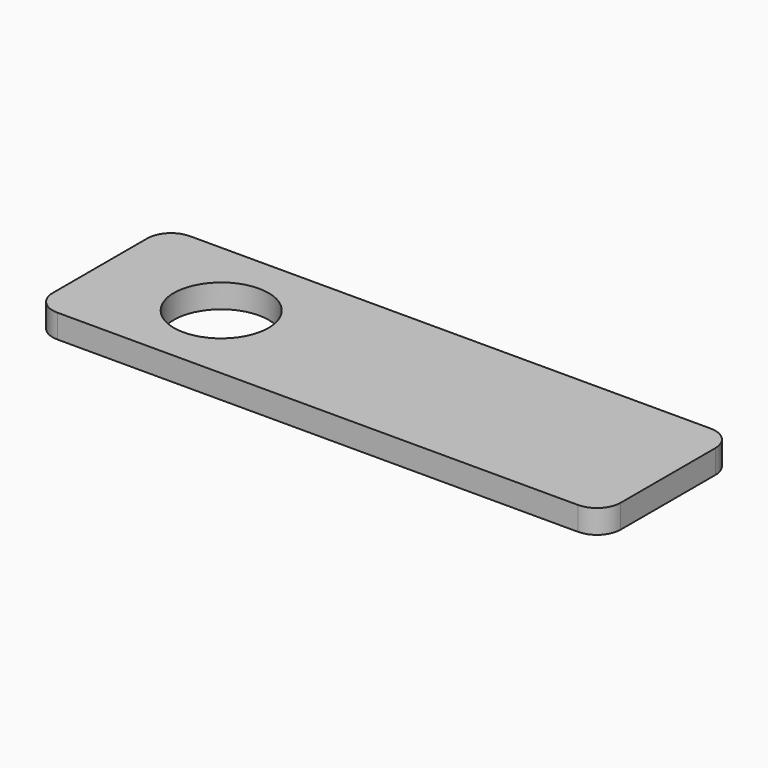
from build123d import *

# Parameters (mm, degrees)
F0_W     = 120
F0_H     = 35
F0_R     = 10
F1_DEPTH = 5
F2_R     = 5


with BuildPart() as f1:
    # F0 (on Top) → F1 (new body)
    with BuildSketch(Plane.XY):
        Rectangle(F0_W, F0_H)
        with Locations((-34.394763, 0)):
            Circle(F0_R, mode=Mode.SUBTRACT)
    extrude(amount=F1_DEPTH)

    # F2
    f2_edges = [f1.edges().sort_by_distance(p)[0] for p in [
        (-60, -17.5, 2.5),
        (60, 17.5, 2.5),
        (60, -17.5, 2.5),
        (-60, 17.5, 2.5),
    ]]
    fillet(f2_edges, radius=F2_R)


solid = f1.part
